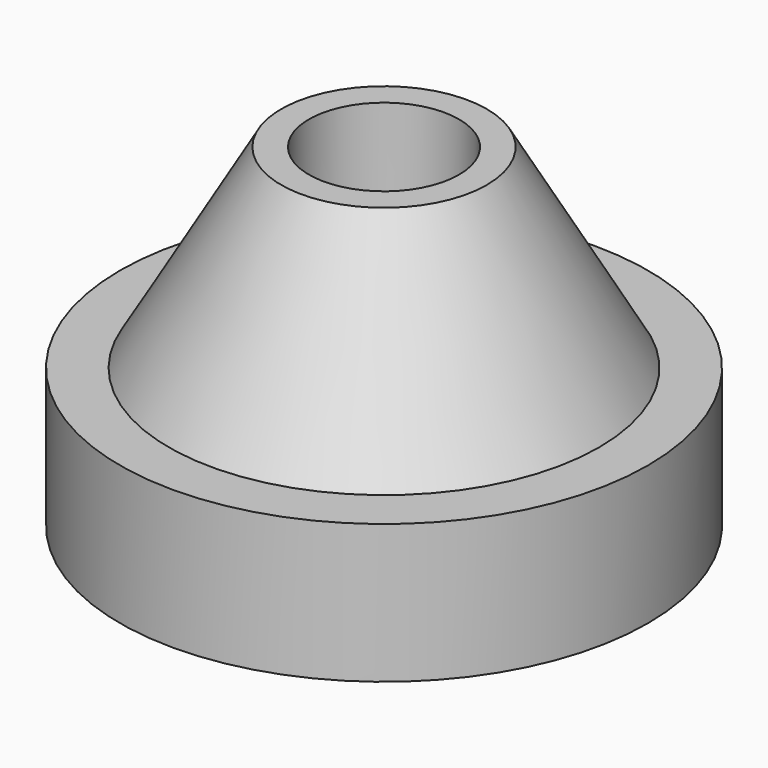
from build123d import *

# Parameters (mm, degrees)
POCKET_DEPTH = 5


with BuildPart() as part:
    # Sketch → Revolution (revolve)
    with BuildSketch(Plane.XZ):
        Polygon((2.7, 12), (2.7, 0), (9.5, 0), (9.5, 5), (7.741452, 5), (3.7, 12), align=None)
    revolve(axis=Axis((0, 0, 0), (0, 0, 1)))

    # Sketch001 (on DatumPlane) → Pocket (cut)
    with BuildSketch(Plane(origin=(0, 0, 0), x_dir=(1, 0, 0), z_dir=(0, 0, -1))):
        Polygon((3.175426, -5.5), (6.350853, 0), (3.175426, 5.5), (-3.175426, 5.5), (-6.350853, 0), (-3.175426, -5.5), align=None)
    extrude(amount=-POCKET_DEPTH, mode=Mode.SUBTRACT)


solid = part.part
